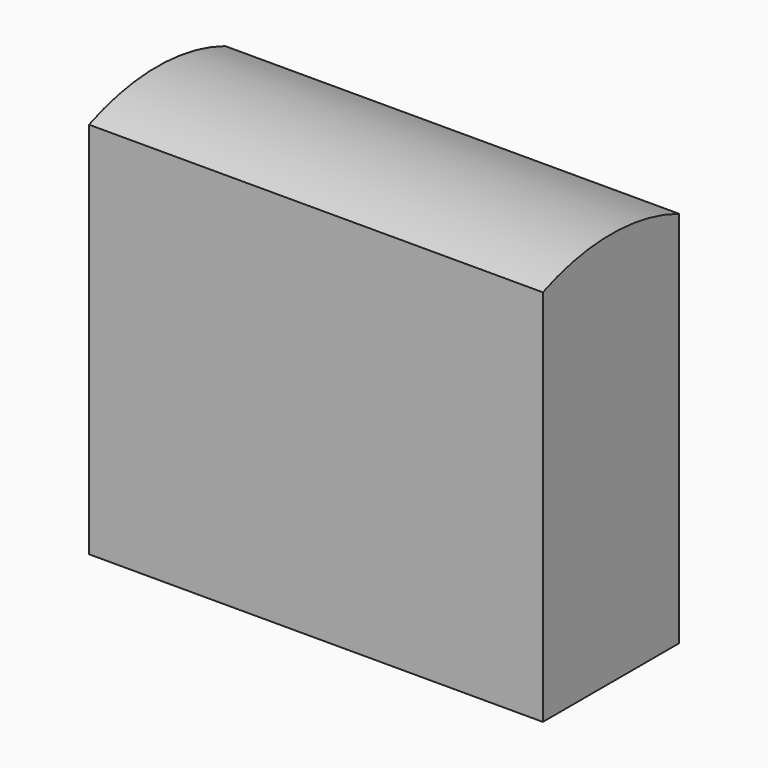
from build123d import *

# Parameters (mm, degrees)
F1_DEPTH      = 76.2
F1_DEPTH_BACK = 76.2


with BuildPart() as f1:
    # F0 (on Right) → F1 (new body, two sides)
    with BuildSketch(Plane.YZ) as f1_sk:
        with BuildLine():
            Line((-28.575, -63.5), (28.575, -63.5))
            Line((28.575, -63.5), (28.575, 63.5))
            ThreePointArc((28.575, 63.5), (0, 69.060709), (-28.575, 63.5))
            Line((-28.575, 63.5), (-28.575, -63.5))
        make_face()
    extrude(amount=F1_DEPTH)
    extrude(f1_sk.sketch, amount=-F1_DEPTH_BACK)


solid = f1.part
